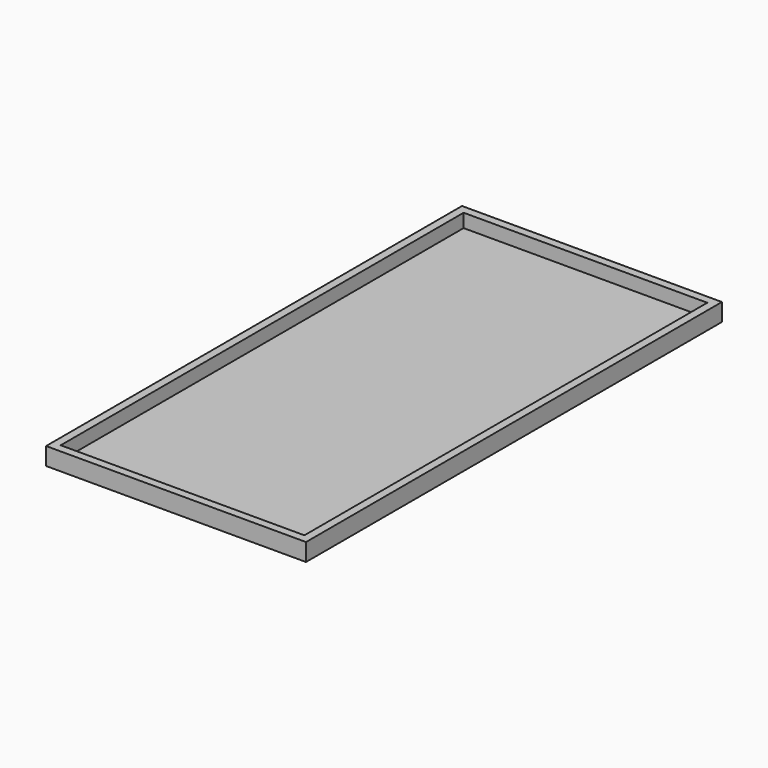
from build123d import *

# Parameters (mm, degrees)
F0_W     = 1219.2
F0_H     = 2438.4
F1_DEPTH = 19.05
F2_W     = 38.1
F2_H     = 2362.2
F3_DEPTH = 63.5


with BuildPart() as f1:
    # F0 (on Top) → F1 (new body)
    with BuildSketch(Plane.XY):
        Rectangle(F0_W, F0_H)
    extrude(amount=-F1_DEPTH)

    # F2 (on face) → F3 (join)
    with BuildSketch(Plane.XY):
        Polygon((609.6, 1219.2), (-609.6, 1219.2), (-609.6, 1181.1), (-571.5, 1181.1), (571.5, 1181.1), (609.6, 1181.1), align=None)
        with Locations((-590.55, 0)):
            Rectangle(F2_W, F2_H)
        with Locations((590.55, 0)):
            Rectangle(F2_W, F2_H)
        Polygon((-571.5, -1181.1), (-609.6, -1181.1), (-609.6, -1219.2), (609.6, -1219.2), (609.6, -1181.1), (571.5, -1181.1), align=None)
    extrude(amount=F3_DEPTH)


solid = f1.part
